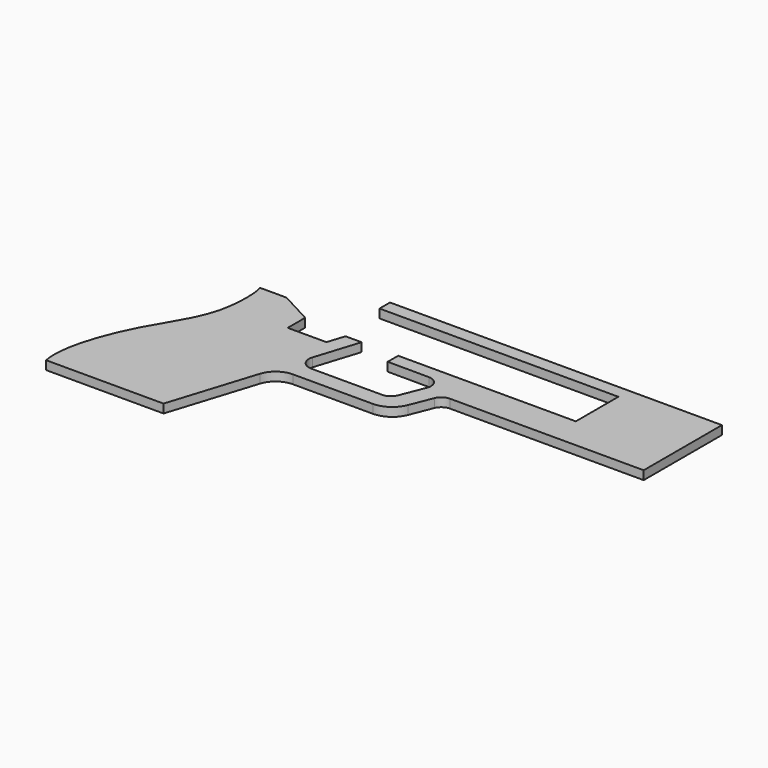
from build123d import *

# Parameters (mm, degrees)
F1_DEPTH = 4


with BuildPart() as f1:
    # F0 (on Top) → F1 (new body)
    with BuildSketch(Plane.XY):
        with BuildLine():
            ThreePointArc((-65.3485529812, -9.8571405677), (-61.7243124317, -4.80082856), (-55.8118753108, -2.865758026))
            Line((-55.8118753108, -2.865758026), (-19.3077567965, -2.865758026))
            ThreePointArc((-19.3077567965, -2.865758026), (-13.0352655017, -0.9385085012), (-8.9270753271, 4.1782493847))
            Line((-8.9270753271, 4.1782493847), (-4.8895819738, 14.3339214299))
            ThreePointArc((-4.8895819738, 14.3339214299), (-3.0508000831, 16.6241274183), (-0.243300208, 17.4867436494))
            Line((-0.243300208, 17.4867436494), (88.4083993115, 17.4867436494))
            Line((88.4083993115, 17.4867436494), (88.4083993115, 62.2491956529))
            Line((88.4083993115, 62.2491956529), (-63.5124376302, 62.2491956529))
            Line((-63.5124376302, 62.2491956529), (-63.5124376302, 56.243252821))
            Line((-63.5124376302, 56.243252821), (45.8239768831, 56.243252821))
            Line((45.8239768831, 56.243252821), (45.8239768831, 31.8919792771))
            Line((45.8239768831, 31.8919792771), (-35.484630129, 31.8919792771))
            Line((-35.484630129, 31.8919792771), (-35.484630129, 25.8860364452))
            Line((-35.484630129, 25.8860364452), (-16.6047911877, 25.8177001013))
            ThreePointArc((-16.6047911877, 25.8177001013), (-12.4804308738, 23.6177404537), (-11.9766070064, 18.9705550732))
            Line((-11.9766070064, 18.9705550732), (-16.4015470169, 7.8403226161))
            ThreePointArc((-16.4015470169, 7.8403226161), (-18.2403289076, 5.5501166277), (-21.0478287827, 4.6875003966))
            Line((-21.0478287827, 4.6875003966), (-53.4805420531, 4.6875003966))
            ThreePointArc((-53.4805420531, 4.6875003966), (-57.8169915976, 6.8853510114), (-58.608339105, 11.6821323383))
            Line((-58.608339105, 11.6821323383), (-52.2325654413, 31.8919792771))
            Line((-52.2325654413, 31.8919792771), (-59.6059766964, 31.8919792771))
            Line((-59.6059766964, 31.8919792771), (-62.0699034763, 24.081855249))
            Line((-62.0699034763, 24.081855249), (-79.7980502248, 24.081855249))
            Line((-79.7980502248, 24.081855249), (-79.7980502248, 34.0838804425))
            Line((-79.7980502248, 34.0838804425), (-94.7532639005, 42.0954217044))
            Line((-94.7532639005, 42.0954217044), (-106.857036563, 42.0954217044))
            add(Edge.make_bspline(
                [(-131.5916006885, -49.4246437373), (-133.8003253065, -39.2093054178), (-123.800538151, -8.2867955446), (-104.8455619272, 15.176766201), (-105.5709760385, 38.1636605281), (-106.857036563, 42.0954217044)],
                knots=[0, 0, 0, 0, 0.3734573295, 0.7150397253, 1, 1, 1, 1], degree=3))
            Line((-131.5916006885, -49.4246437373), (-77.8312524006, -49.4246437373))
            Line((-77.8312524006, -49.4246437373), (-65.3485529812, -9.8571405677))
        make_face()
    extrude(amount=F1_DEPTH)


solid = f1.part
